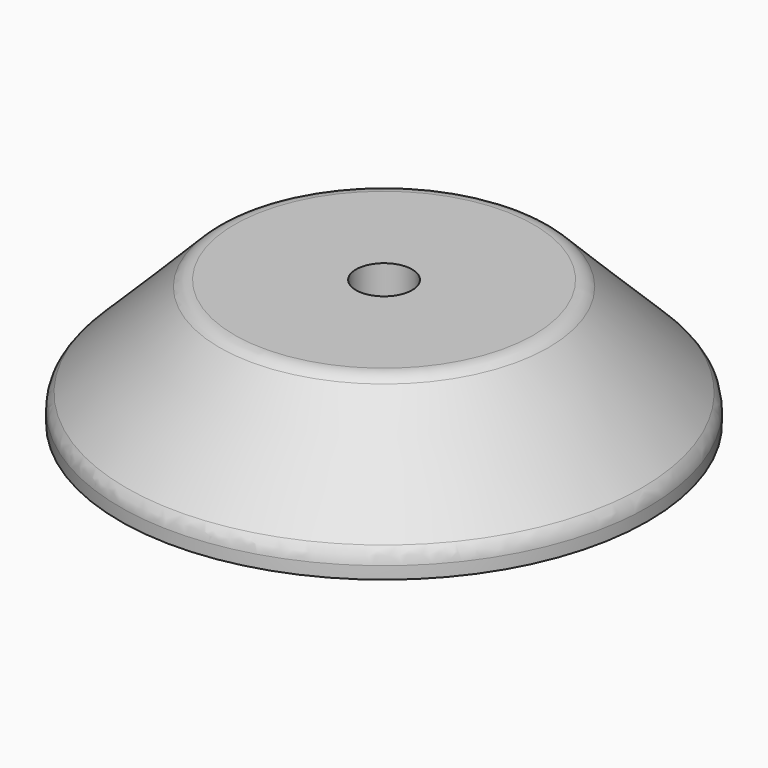
from build123d import *

# Parameters (mm, degrees)
F0_R     = 62.5
F1_DEPTH = 30
F2_SIZE  = 25
F3_R     = 6.65
F4_DEPTH = 25
F5_R     = 5
F6_R     = 5
F7_R     = 45
F7_R_2   = 22.5
F8_DEPTH = 10
F9_SIZE  = 5


with BuildPart() as f1:
    # F0 (on Top) → F1 (new body)
    with BuildSketch(Plane.XY):
        Circle(F0_R)
    extrude(amount=F1_DEPTH)

    # F2
    f2_edges = [f1.edges().sort_by_distance(p)[0] for p in [
        (-62.5, 0, 30),
    ]]
    chamfer(f2_edges, length=F2_SIZE)

    # F3 (on face) → F4 (cut)
    with BuildSketch(Plane.XY.offset(30)):
        Circle(F3_R)
    extrude(amount=-F4_DEPTH, mode=Mode.SUBTRACT)

    # F5
    f5_edges = [f1.edges().sort_by_distance(p)[0] for p in [
        (-37.5, 0, 30),
    ]]
    fillet(f5_edges, radius=F5_R)

    # F6
    f6_edges = [f1.edges().sort_by_distance(p)[0] for p in [
        (-62.5, 0, 5),
    ]]
    fillet(f6_edges, radius=F6_R)

    # F7 (on face) → F8 (cut)
    with BuildSketch(Plane(origin=(0, 0, 0), x_dir=(1, 0, 0), z_dir=(0, 0, -1))):
        Circle(F7_R)
        Circle(F7_R_2, mode=Mode.SUBTRACT)
    extrude(amount=-F8_DEPTH, mode=Mode.SUBTRACT)

    # F9
    f9_edges = [f1.edges().sort_by_distance(p)[0] for p in [
        (-45, 0, 0),
        (-22.5, 0, 0),
    ]]
    chamfer(f9_edges, length=F9_SIZE)


solid = f1.part
